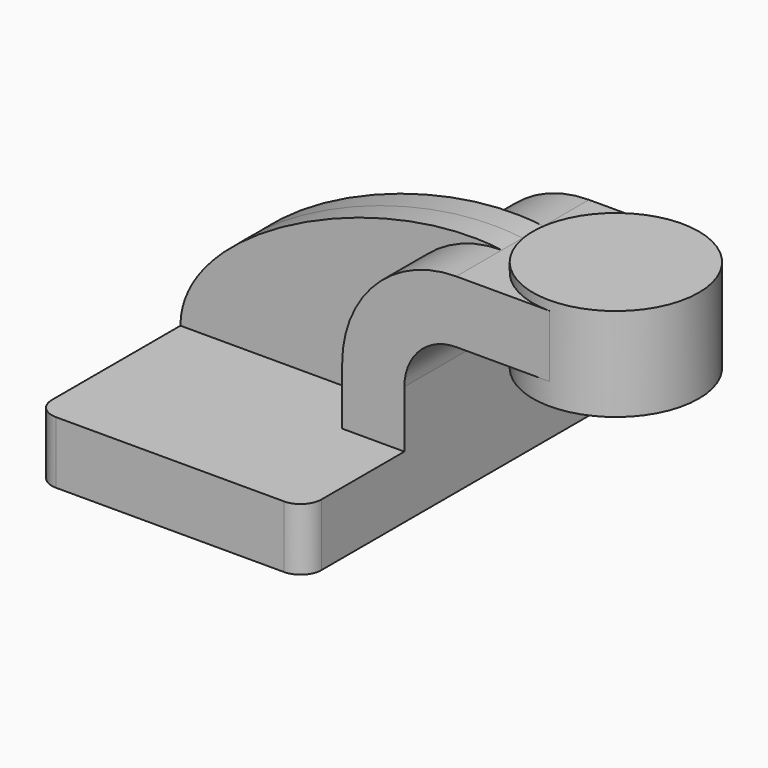
from build123d import *

# Parameters (mm, degrees)
F1_DEPTH = 63.5
F2_DEPTH = 25.4
F3_DEPTH = 7.9375
F5_R     = 6.35


with BuildPart() as f1:
    # F0 (on Front) → F1 (new body, symmetric)
    with BuildSketch(Plane.XZ):
        Polygon((-41.275, -9.525), (41.275, -9.525), (41.275, 9.525), (22.225, 9.525), (-41.275, 9.525), align=None)
    extrude(amount=F1_DEPTH, both=True)

    # F0 (on Front) → F2 (join, symmetric)
    with BuildSketch(Plane.XZ):
        with BuildLine():
            Line((22.225, 9.525), (41.275, 9.525))
            Line((41.275, 9.525), (41.275, 27.0002))
            ThreePointArc((41.275, 27.0002), (45.9246798487, 38.2255201513), (57.15, 42.8752))
            Line((57.15, 42.8752), (60.325, 42.8752))
            Line((60.325, 42.8752), (60.325, 61.9252))
            Line((60.325, 61.9252), (57.15, 61.9252))
            ThreePointArc((57.15, 61.9252), (32.4542956671, 51.6959043329), (22.225, 27.0002))
            Line((22.225, 27.0002), (22.225, 9.525))
        make_face()
        Polygon((85.725, 61.9252), (60.325, 61.9252), (60.325, 42.8752), (85.725, 42.8752), (85.725, 50.4787749963), align=None)
    extrude(amount=F2_DEPTH, both=True)

    # F0 (on Front) → F3 (join, symmetric)
    with BuildSketch(Plane.XZ):
        with BuildLine():
            add(Edge.make_bspline(
                [(-41.275, 9.525), (-41.2498526275, 38.3011959493), (19.6118596941, 66.9183731079), (57.15, 61.9252)],
                knots=[0, 0, 0, 0, 111.5045361635, 111.5045361635, 111.5045361635, 111.5045361635], degree=3))
            Line((-41.275, 9.525), (22.225, 9.525))
            Line((22.225, 9.525), (22.225, 27.0002))
            ThreePointArc((22.225, 27.0002), (32.4542956671, 51.6959043329), (57.15, 61.9252))
        make_face()
    extrude(amount=F3_DEPTH, both=True)

    # F0 (on Front) → F4 (revolve)
    with BuildSketch(Plane.XZ):
        Polygon((85.725, 64.7662749963), (85.725, 61.9252), (85.725, 50.4787749963), (85.725, 42.8752), (85.725, 36.1912749963), (111.125, 36.1912749963), (111.125, 64.7662749963), align=None)
    revolve(axis=Axis((85.725, 0, 50.4787749963), (0, 0, -1)))

    # F5
    f5_edges = [f1.edges().sort_by_distance(p)[0] for p in [
        (-41.275, -63.5, 0),
        (41.275, -63.5, 0),
        (41.275, 63.5, 0),
        (-41.275, 63.5, 0),
    ]]
    fillet(f5_edges, radius=F5_R)


solid = f1.part
